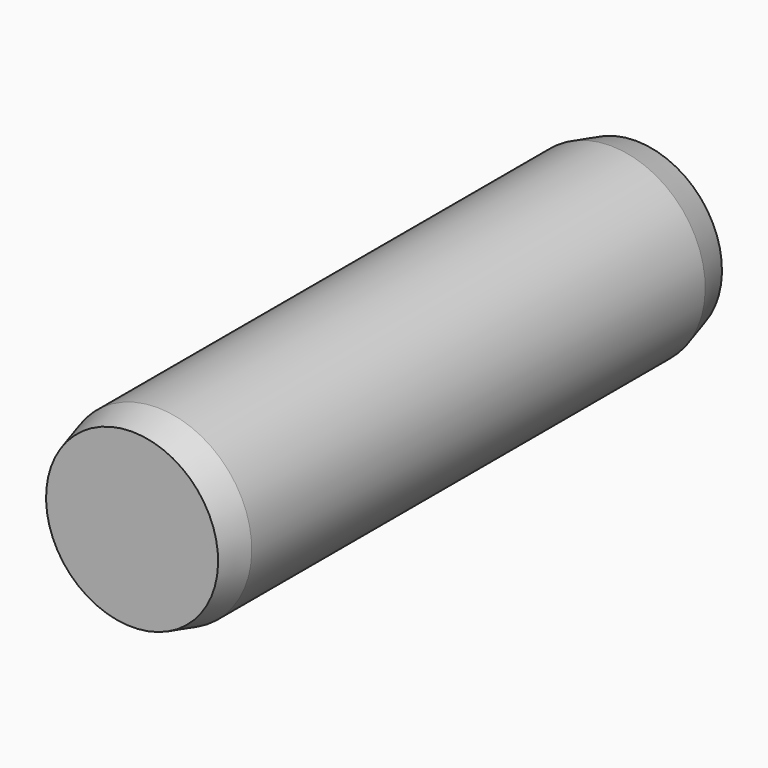
from build123d import *


with BuildPart() as part:
    # Sketch → Revolution (revolve)
    with BuildSketch(Plane.YZ):
        Polygon((0, 0), (0, 1.366025), (0.5, 1.5), (9.5, 1.5), (10, 1.366025), (10, 0), align=None)
    revolve(axis=Axis((0, 0, 0), (0, 1, 0)))


solid = part.part
